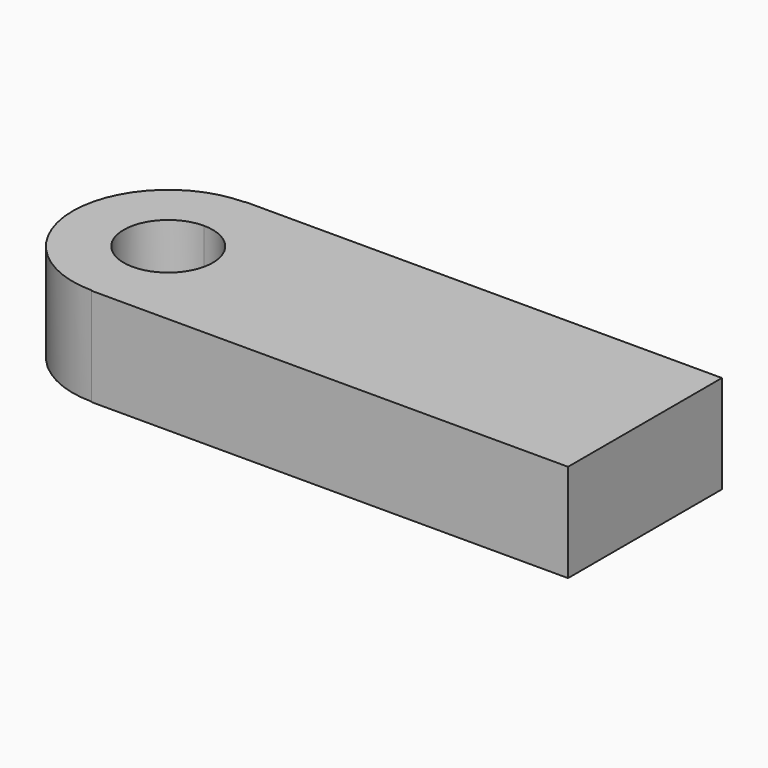
from build123d import *

# Parameters (mm, degrees)
F1_DEPTH = 25.4


with BuildPart() as f1:
    # F0 (on Top) → F1 (new body)
    with BuildSketch(Plane.XY):
        with BuildLine():
            Line((-61.765037477, -24.7485272537), (-61.765037477, -24.9177198857))
            Line((-61.765037477, -24.9177198857), (61.765037477, -24.9177198857))
            Line((61.765037477, -24.9177198857), (61.765037477, 24.9177198857))
            Line((61.765037477, 24.9177198857), (-61.765037477, 24.9177198857))
            Line((-61.765037477, 24.9177198857), (-61.765037477, 24.7485272537))
            ThreePointArc((-61.765037477, 24.7485272537), (-44.2651860316, 17.4998514455), (-37.0165102233, 0))
            ThreePointArc((-37.0165102233, 0), (-44.2651860316, -17.4998514455), (-61.765037477, -24.7485272537))
        make_face()
        with BuildLine():
            ThreePointArc((-61.765037477, 24.7485272537), (-86.5135647307, 0), (-61.765037477, -24.7485272537))
            Line((-61.765037477, -24.7485272537), (-61.765037477, -11.5415442381))
            ThreePointArc((-61.765037477, -11.5415442381), (-73.3065817151, 0), (-61.765037477, 11.5415442381))
            Line((-61.765037477, 11.5415442381), (-61.765037477, 24.7485272537))
        make_face()
        with BuildLine():
            Line((-61.765037477, -11.5415442381), (-61.765037477, -24.7485272537))
            ThreePointArc((-61.765037477, -24.7485272537), (-44.2651860316, -17.4998514455), (-37.0165102233, 0))
            ThreePointArc((-37.0165102233, 0), (-44.2651860316, 17.4998514455), (-61.765037477, 24.7485272537))
            Line((-61.765037477, 24.7485272537), (-61.765037477, 11.5415442381))
            ThreePointArc((-61.765037477, 11.5415442381), (-53.6039332809, 8.1611041961), (-50.2234932389, 0))
            ThreePointArc((-50.2234932389, 0), (-53.6039332809, -8.1611041961), (-61.765037477, -11.5415442381))
        make_face()
    extrude(amount=F1_DEPTH)


solid = f1.part
